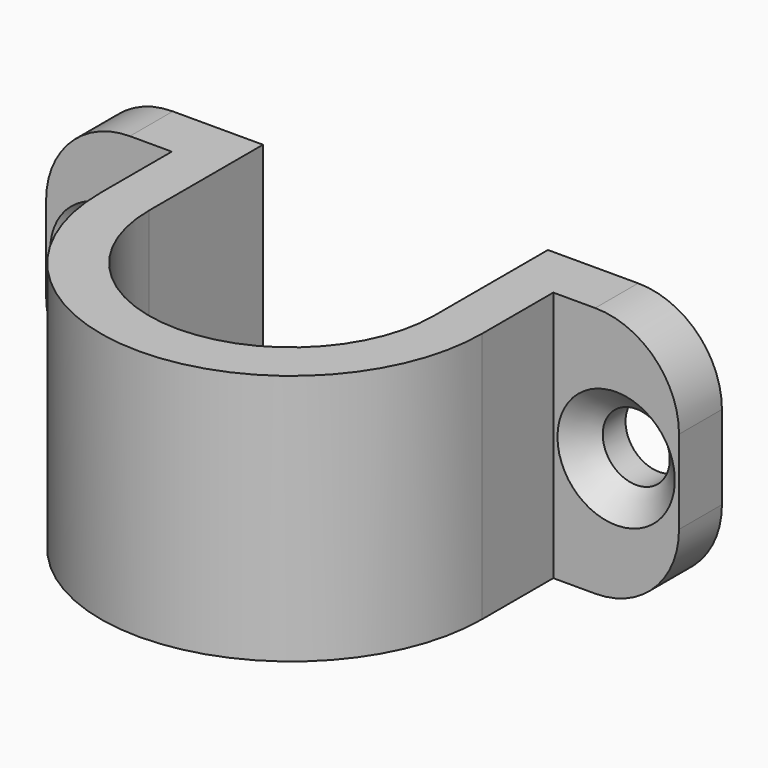
from build123d import *

# Parameters (mm, degrees)
F1_DEPTH       = 15
F3_D           = 4
F3_CSINK_D     = 7
F3_CSINK_ANGLE = 90
F4_R           = 5


with BuildPart() as f1:
    # F0 (on Top) → F1 (new body)
    with BuildSketch(Plane.XY):
        with BuildLine():
            ThreePointArc((-10.0704716871, 5.3), (-9.3541459143, 6.4810766246), (-8.5, 7.5666637298))
            Line((-8.5, 7.5666637298), (-8.5, 8.5))
            Line((-8.5, 8.5), (-18.88, 8.5))
            Line((-18.88, 8.5), (-18.88, 5.3))
            Line((-18.88, 5.3), (-11.38, 5.3))
            Line((-11.38, 5.3), (-10.0704716871, 5.3))
        make_face()
        with BuildLine():
            ThreePointArc((-11.38, 0), (-11.0477682769, 2.7296915761), (-10.0704716871, 5.3))
            Line((-10.0704716871, 5.3), (-11.38, 5.3))
            Line((-11.38, 5.3), (-11.38, 0))
        make_face()
        with BuildLine():
            ThreePointArc((8.5, 0), (0, -8.5), (-8.5, 0))
            Line((-8.5, 0), (-8.5, 5.3))
            Line((-8.5, 5.3), (-10.0704716871, 5.3))
            ThreePointArc((-10.0704716871, 5.3), (-11.0477682769, 2.7296915761), (-11.38, 0))
            ThreePointArc((-11.38, 0), (0, -11.38), (11.38, 0))
            ThreePointArc((11.38, 0), (11.0477682769, 2.7296915761), (10.0704716871, 5.3))
            Line((10.0704716871, 5.3), (8.5, 5.3))
            Line((8.5, 5.3), (8.5, 0))
        make_face()
        with BuildLine():
            Line((11.38, 5.3), (10.0704716871, 5.3))
            ThreePointArc((10.0704716871, 5.3), (11.0477682769, 2.7296915761), (11.38, 0))
            Line((11.38, 0), (11.38, 5.3))
        make_face()
        with BuildLine():
            Line((8.5, 8.5), (8.5, 7.5666637298))
            ThreePointArc((8.5, 7.5666637298), (9.3541459143, 6.4810766246), (10.0704716871, 5.3))
            Line((10.0704716871, 5.3), (11.38, 5.3))
            Line((11.38, 5.3), (18.88, 5.3))
            Line((18.88, 5.3), (18.88, 8.5))
            Line((18.88, 8.5), (8.5, 8.5))
        make_face()
        with BuildLine():
            ThreePointArc((8.5, 0), (0, -8.5), (-8.5, 0))
            Line((-8.5, 0), (-8.5, 5.3))
            Line((-8.5, 5.3), (-10.0704716871, 5.3))
            ThreePointArc((-10.0704716871, 5.3), (-11.0477682769, 2.7296915761), (-11.38, 0))
            ThreePointArc((-11.38, 0), (0, -11.38), (11.38, 0))
            ThreePointArc((11.38, 0), (11.0477682769, 2.7296915761), (10.0704716871, 5.3))
            Line((10.0704716871, 5.3), (8.5, 5.3))
            Line((8.5, 5.3), (8.5, 0))
        make_face()
        with BuildLine():
            Line((-10.0704716871, 5.3), (-8.5, 5.3))
            Line((-8.5, 5.3), (-8.5, 7.5666637298))
            ThreePointArc((-8.5, 7.5666637298), (-9.3541459143, 6.4810766246), (-10.0704716871, 5.3))
        make_face()
        with BuildLine():
            Line((8.5, 7.5666637298), (8.5, 5.3))
            Line((8.5, 5.3), (10.0704716871, 5.3))
            ThreePointArc((10.0704716871, 5.3), (9.3541459143, 6.4810766246), (8.5, 7.5666637298))
        make_face()
    extrude(amount=F1_DEPTH)

    # F3 (through all)
    with Locations(Plane.XZ.offset(-5.3)):
        with Locations((-15.13, 7.5), (15.13, 7.5)):
            CounterSinkHole(F3_D / 2, F3_CSINK_D / 2, counter_sink_angle=F3_CSINK_ANGLE)

    # F4
    f4_edges = [f1.edges().sort_by_distance(p)[0] for p in [
        (-18.88, 6.9, 15),
        (-18.88, 6.9, 0),
        (18.88, 6.9, 15),
        (18.88, 6.9, 0),
    ]]
    fillet(f4_edges, radius=F4_R)


solid = f1.part
